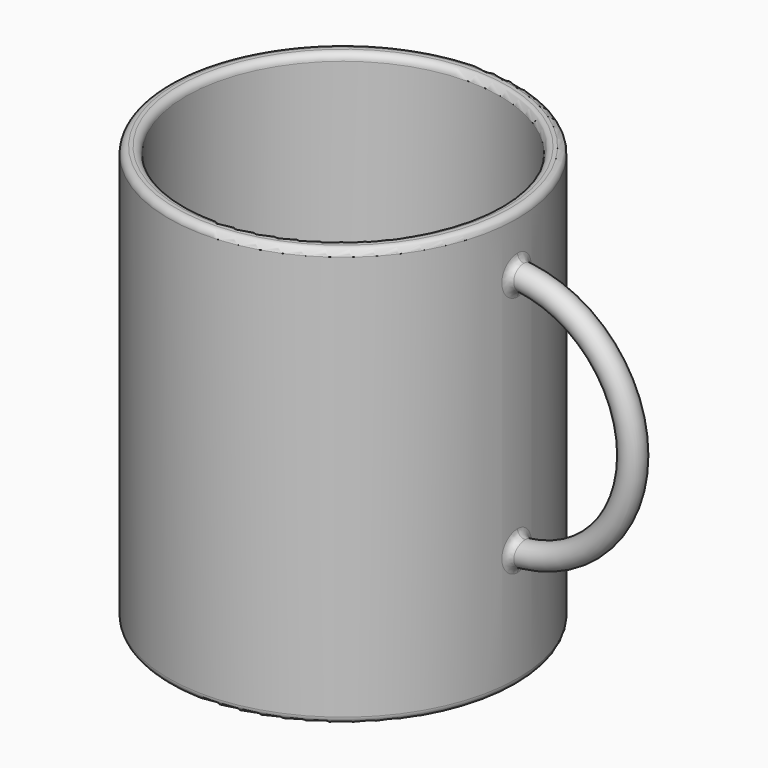
from build123d import *

# Parameters (mm, degrees)
SKETCH_R      = 50
SKETCH_R_2    = 45
PAD_DEPTH     = 111
SKETCH001_R   = 50
PAD001_DEPTH  = 5
SKETCH002_R   = 50
SKETCH002_R_2 = 45
PAD002_DEPTH  = 4
FILLET_R      = 2
FILLET001_R   = 2
FILLET002_R   = 3
SKETCH004_R   = 3.5
FILLET003_R   = 2
FILLET004_R   = 2


with BuildPart() as part:
    # Sketch → Pad (new body)
    with BuildSketch(Plane.XY):
        Circle(SKETCH_R)
        Circle(SKETCH_R_2, mode=Mode.SUBTRACT)
    extrude(amount=PAD_DEPTH)

    # Sketch001 (on Face3 of Pad) → Pad001 (join)
    with BuildSketch(Plane(origin=(0, 0, 0), x_dir=(1, 0, 0), z_dir=(0, 0, -1))):
        Circle(SKETCH001_R)
    extrude(amount=PAD001_DEPTH)

    # Sketch002 (on Face4 of Pad001) → Pad002 (join)
    with BuildSketch(Plane(origin=(0, 0, -5), x_dir=(1, 0, 0), z_dir=(0, 0, -1))):
        Circle(SKETCH002_R)
        Circle(SKETCH002_R_2, mode=Mode.SUBTRACT)
    extrude(amount=PAD002_DEPTH)

    # Fillet
    fillet_edges = [part.edges().sort_by_distance(p)[0] for p in [
        (-50, 0, -9),
    ]]
    fillet(fillet_edges, radius=FILLET_R)

    # Fillet001
    fillet001_edges = [part.edges().sort_by_distance(p)[0] for p in [
        (-45, 0, -9),
    ]]
    fillet(fillet001_edges, radius=FILLET001_R)

    # Fillet002
    fillet002_edges = [part.edges().sort_by_distance(p)[0] for p in [
        (-45, 0, -5),
    ]]
    fillet(fillet002_edges, radius=FILLET002_R)

    # Pipe: sweep along a path in Sketch003
    with BuildLine(Plane.XZ) as pipe_path:
        ThreePointArc((48, 25), (83, 60), (48, 95))
    # Sketch004 (on Plane of DatumPlane) → Pipe (sweep)
    with BuildSketch(Plane.YZ.offset(48)):
        with Locations((0, 25)):
            Circle(SKETCH004_R)
    sweep(path=pipe_path.line)

    # Fillet003
    fillet003_edges = [part.edges().sort_by_distance(p)[0] for p in [
        (49.938692, 2.475286, 97.424279),
        (49.938645, 2.476236, 92.468664),
        (49.938645, 2.476236, 27.531336),
        (49.938692, 2.475286, 22.575721),
        (49.87735, -3.499997, 25.055272),
        (49.87735, -3.499997, 94.944728),
    ]]
    fillet(fillet003_edges, radius=FILLET003_R)

    # Fillet004
    fillet004_edges = [part.edges().sort_by_distance(p)[0] for p in [
        (-45, 0, 111),
        (-50, 0, 111),
    ]]
    fillet(fillet004_edges, radius=FILLET004_R)


with BuildPart() as part_1:
    # Body placement: moved
    add(part.part.moved(Location((0, 0, 9))))


solid = part_1.part
